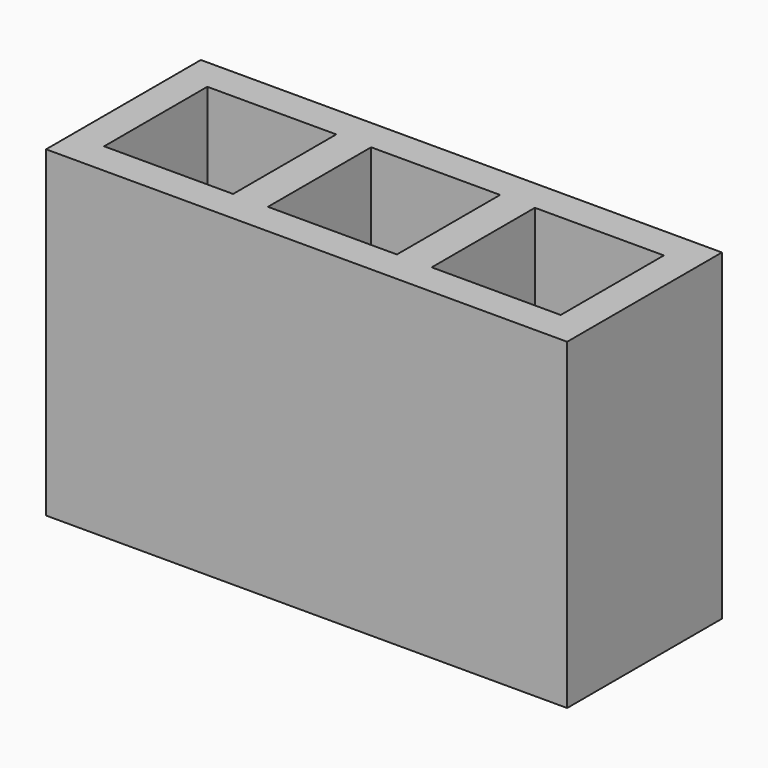
from build123d import *

# Parameters (mm, degrees)
F0_W     = 8.08
F0_H     = 3
F0_W_2   = 2
F0_H_2   = 2
F1_DEPTH = 5


with BuildPart() as f1:
    # F0 (on Top) → F1 (new body)
    with BuildSketch(Plane.XY):
        with Locations((4.04, 1.5)):
            Rectangle(F0_W, F0_H)
        with Locations((1.5, 1.5)):
            Rectangle(F0_W_2, F0_H_2, mode=Mode.SUBTRACT)
        with Locations((4.04, 1.5)):
            Rectangle(F0_W_2, F0_H_2, mode=Mode.SUBTRACT)
        with Locations((6.58, 1.5)):
            Rectangle(F0_W_2, F0_H_2, mode=Mode.SUBTRACT)
    extrude(amount=F1_DEPTH)


solid = f1.part
